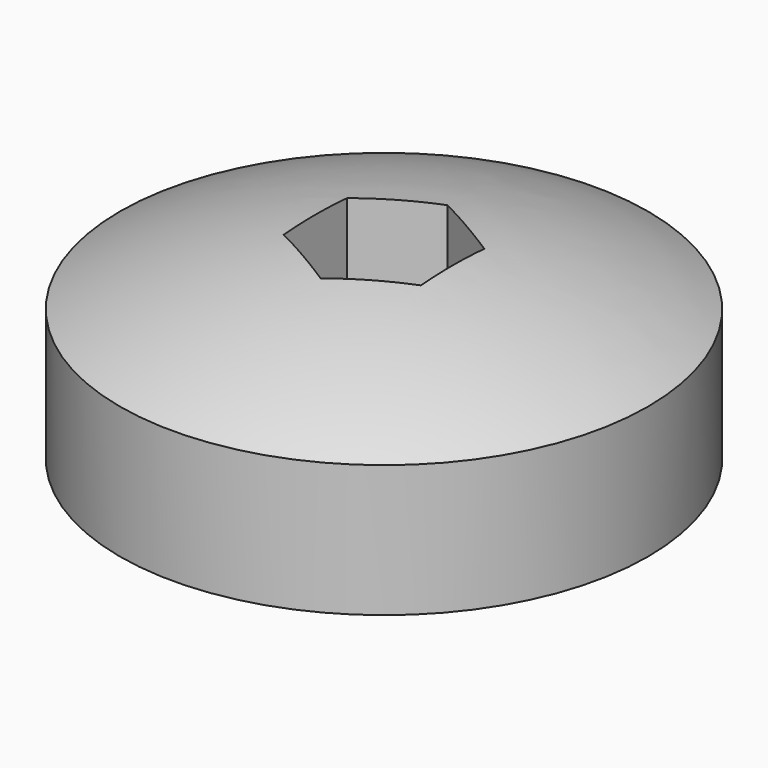
from build123d import *

# Parameters (mm, degrees)
F0_R     = 50
F1_DEPTH = 25
F4_DEPTH = 12.4837433515


with BuildPart() as f1:
    # F0 (on Top) → F1 (new body)
    with BuildSketch(Plane.XY):
        Circle(F0_R)
        Polygon((-12.9903810568, 7.5), (0, 15), (12.9903810568, 7.5), (12.9903810568, -7.5), (0, -15), (-12.9903810568, -7.5), align=None, mode=Mode.SUBTRACT)
    extrude(amount=F1_DEPTH)

    # F2 (on Front) → F3 (revolve)
    with BuildSketch(Plane.XZ):
        with BuildLine():
            Line((0, 25), (50, 25))
            ThreePointArc((50, 25), (25.7045802551, 34.0635888294), (0, 37.4827432515))
            Line((0, 37.4827432515), (0, 25))
        make_face()
    revolve(axis=Axis((0, 0, 31.2413716258), (0, 0, 1)))

    # F4 (cut, through all): a face of the model
    f4_faces = [f1.faces().sort_by_distance(p)[0] for p in [
        (0, 0, 25),
    ]]
    extrude(f4_faces, amount=-F4_DEPTH, mode=Mode.SUBTRACT)


solid = f1.part
